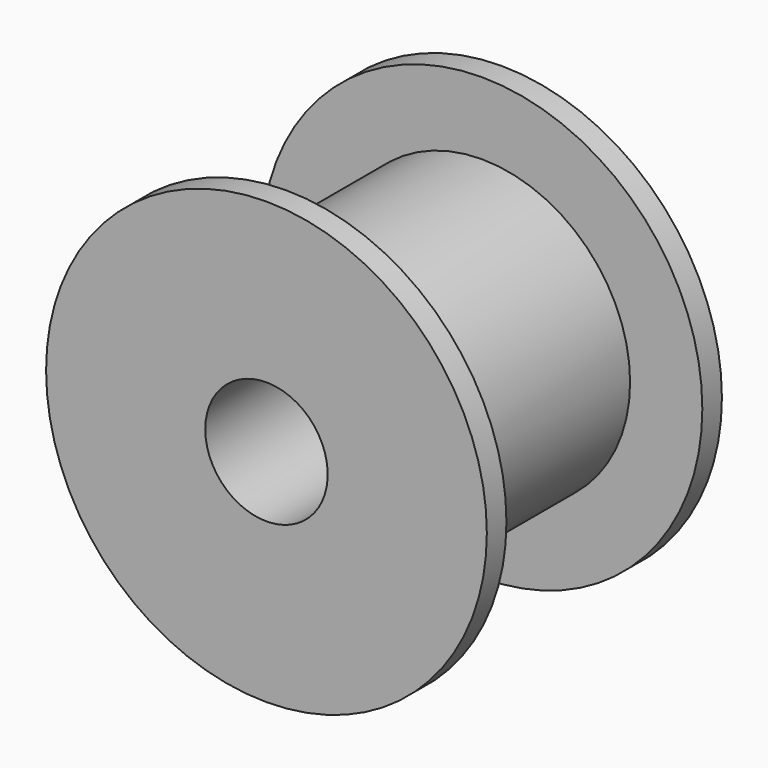
from build123d import *

# Parameters (mm, degrees)
F3_D = 5


with BuildPart() as f1:
    # F0 (on Top) → F1 (revolve)
    with BuildSketch(Plane.XY):
        Polygon((9, 0), (0, 0), (0, -12), (9, -12), (9, -11), (6.05, -11), (6.05, -1), (9, -1), align=None)
    revolve(axis=Axis((0, -6, 0), (0, 1, 0)))

    # F3 (through all)
    with Locations(Plane(origin=(0, 0, 0), x_dir=(1, 0, 0), z_dir=(0, 1, 0))):
        with Locations((0, 0)):
            Hole(F3_D / 2)


solid = f1.part
